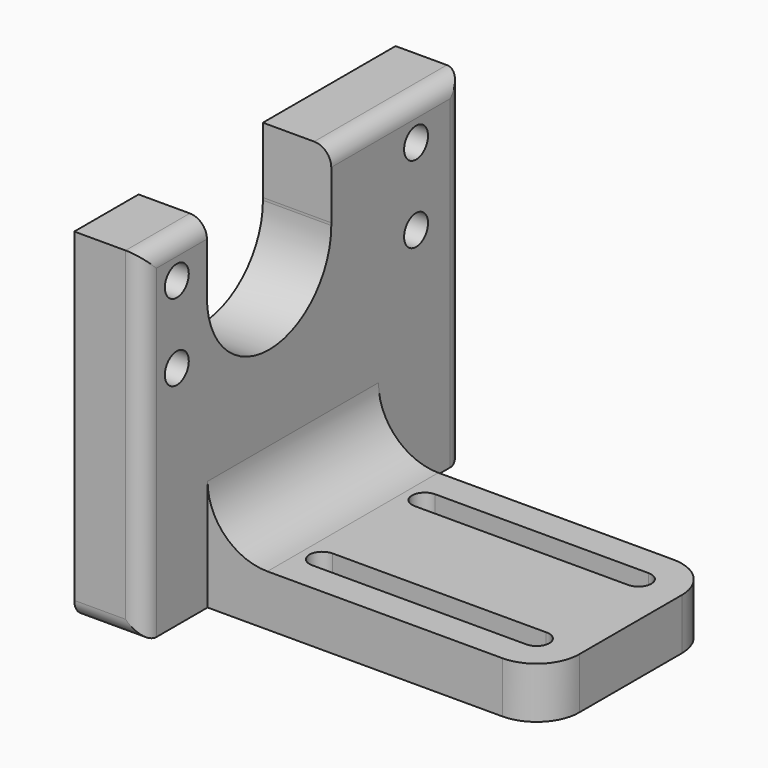
from build123d import *

# Parameters (mm, degrees)
F0_W     = 39.5
F0_H     = 25
F1_DEPTH = 6
F2_R     = 5
F3_W     = 8
F3_H     = 47
F4_DEPTH = 25
F5_R     = 7
F6_DEPTH = 40
F7_R     = 1.75
F8_DEPTH = 25
F9_R     = 2


with BuildPart() as f1:
    # F0 (on Top) → F1 (new body)
    with BuildSketch(Plane.XY):
        with Locations((19.75, -12.5)):
            Rectangle(F0_W, F0_H)
        with BuildLine():
            ThreePointArc((9.428176, -21.5), (7.928176, -20), (9.428176, -18.5))
            Line((9.428176, -18.5), (34.428176, -18.5))
            ThreePointArc((34.428176, -18.5), (36.00043, -19.963218), (34.5, -21.5))
            Line((34.5, -21.5), (9.428176, -21.5))
        make_face(mode=Mode.SUBTRACT)
        with BuildLine():
            ThreePointArc((9.428176, -6.5), (7.928176, -5), (9.428176, -3.5))
            Line((9.428176, -3.5), (34.428176, -3.5))
            ThreePointArc((34.428176, -3.5), (35.928176, -5), (34.428176, -6.5))
            Line((34.428176, -6.5), (9.428176, -6.5))
        make_face(mode=Mode.SUBTRACT)
    extrude(amount=F1_DEPTH)

    # F2
    f2_edges = [f1.edges().sort_by_distance(p)[0] for p in [
        (39.5, 0, 3),
        (39.5, -25, 3),
    ]]
    fillet(f2_edges, radius=F2_R)

    # F3 (on Top) → F4 (join)
    with BuildSketch(Plane.XY):
        with Locations((-4, -11)):
            Rectangle(F3_W, F3_H)
    extrude(amount=F4_DEPTH)

    # F5
    f5_edges = [f1.edges().sort_by_distance(p)[0] for p in [
        (0, -12.5, 6),
        (0, -34.5, 12.5),
        (0, 12.5, 12.5),
    ]]
    fillet(f5_edges, radius=F5_R)

    # F3 (on Top) → F6 (join)
    with BuildSketch(Plane.XY):
        with Locations((-4, -11)):
            Rectangle(F3_W, F3_H)
    extrude(amount=F6_DEPTH)

    # F7 (on Right) → F8 (cut)
    with BuildSketch(Plane.YZ):
        with Locations((-29.5, 35.5)):
            Circle(F7_R)
        with Locations((5.5, 35.5)):
            Circle(F7_R)
        with Locations((5.5, 26.5)):
            Circle(F7_R)
        with Locations((-29.5, 26.5)):
            Circle(F7_R)
        with BuildLine():
            ThreePointArc((-25.098021, 32), (-16, 22.901979), (-6.901979, 32))
            ThreePointArc((-6.901979, 32), (-6.903109, 32.143378), (-6.906498, 32.286721))
            ThreePointArc((-6.906498, 32.286721), (-8.276915, 36.809152), (-11.730835, 40.03419))
            Line((-11.730835, 40.03419), (-20.269165, 40.03419))
            ThreePointArc((-20.269165, 40.03419), (-23.797914, 36.686845), (-25.098021, 32))
        make_face()
        with BuildLine():
            ThreePointArc((-11.730835, 40.03419), (-8.276915, 36.809152), (-6.906498, 32.286721))
            Line((-6.906498, 32.286721), (-6.906498, 40.03419))
            Line((-6.906498, 40.03419), (-11.730835, 40.03419))
        make_face()
        with BuildLine():
            Line((-25.098021, 40.03419), (-25.098021, 32))
            ThreePointArc((-25.098021, 32), (-23.797914, 36.686845), (-20.269165, 40.03419))
            Line((-20.269165, 40.03419), (-25.098021, 40.03419))
        make_face()
        with BuildLine():
            Line((-20.269165, 40.03419), (-11.730835, 40.03419))
            ThreePointArc((-11.730835, 40.03419), (-16, 41.098021), (-20.269165, 40.03419))
        make_face()
    extrude(amount=-F8_DEPTH, mode=Mode.SUBTRACT)

    # F9
    f9_edges = [f1.edges().sort_by_distance(p)[0] for p in [
        (0, 2.796751, 40),
        (0, -29.79901, 40),
        (0, -34.5, 20),
        (0, 12.5, 20),
        (-4, 12.5, 0),
        (-4, -34.5, 0),
    ]]
    fillet(f9_edges, radius=F9_R)


solid = f1.part
